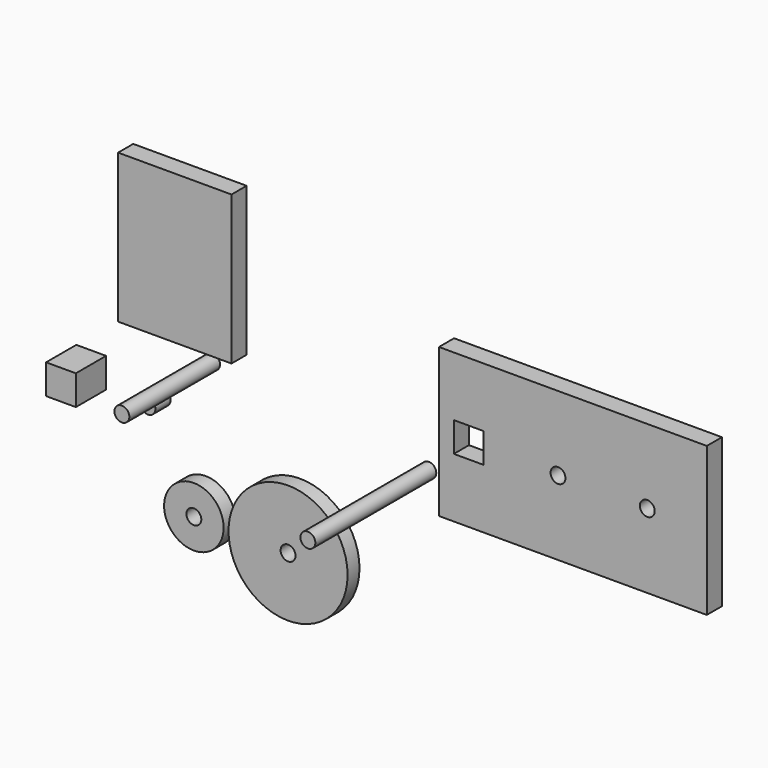
from build123d import *

# Parameters (mm, degrees)
F0_R      = 10
F1_DEPTH  = 5
F0_R_2    = 20
F2_R      = 2.5
F3_DEPTH  = 5.001
F4_R      = 2.5
F5_DEPTH  = 5.001
F6_R      = 2.5
F7_DEPTH  = 38.1
F8_R      = 2.5
F9_DEPTH  = 50.8
F10_W     = 38.1
F10_H     = 50
F11_DEPTH = 6.35
F10_W_2   = 90
F12_W     = 10
F12_H     = 5
F13_DEPTH = 6.351
F14_W     = 10
F14_H     = 10
F15_DEPTH = 12.7
F16_R     = 2.5
F17_DEPTH = 6.35


with BuildPart() as f1:
    # F0 (on Front) → F1 (new body)
    with BuildSketch(Plane.XZ):
        with Locations((-47.5912168622, -11.0245700926)):
            Circle(F0_R)
    extrude(amount=F1_DEPTH)

    # F2 (on face) → F3 (cut, through all)
    with BuildSketch(Plane.XZ.offset(5)):
        with Locations((-47.5912168622, -11.0245700926)):
            Circle(F2_R)
    extrude(amount=-F3_DEPTH, mode=Mode.SUBTRACT)


with BuildPart() as f1b:
    # F0 (on Front) → F1, piece 2 (new body)
    with BuildSketch(Plane.XZ):
        with Locations((-15.9365069121, -11.4611871541)):
            Circle(F0_R_2)
    extrude(amount=F1_DEPTH)

    # F4 (on face) → F5 (cut, through all)
    with BuildSketch(Plane.XZ.offset(5)):
        with Locations((-15.9365069121, -11.4611871541)):
            Circle(F4_R)
    extrude(amount=-F5_DEPTH, mode=Mode.SUBTRACT)


with BuildPart() as f7:
    # F6 (on Front) → F7 (new body)
    with BuildSketch(Plane.XZ):
        with Locations((-45.2932268381, 33.5594303906)):
            Circle(F6_R)
    extrude(amount=F7_DEPTH)


with BuildPart() as f9:
    # F8 (on Front) → F9 (new body)
    with BuildSketch(Plane.XZ):
        with Locations((27.3612700403, 25.0783581287)):
            Circle(F8_R)
    extrude(amount=F9_DEPTH)


with BuildPart() as f11:
    # F10 (on Front) → F11 (new body)
    with BuildSketch(Plane.XZ):
        with Locations((-52.9153950814, 64.3106035315)):
            Rectangle(F10_W, F10_H)
    extrude(amount=F11_DEPTH)


with BuildPart() as f11b:
    # F10 (on Front) → F11, piece 2 (new body)
    with BuildSketch(Plane.XZ):
        with Locations((80.8423385769, 41.8799925596)):
            Rectangle(F10_W_2, F10_H)
    extrude(amount=F11_DEPTH)

    # F12 (on face) → F13 (cut, through all)
    with BuildSketch(Plane.XZ.offset(6.35)):
        with BuildLine():
            ThreePointArc((78.3423385769, 41.8799925596), (75.8423385769, 44.3799925596), (73.3423385769, 41.8799925596))
            Line((73.3423385769, 41.8799925596), (78.3423385769, 41.8799925596))
        make_face()
        with BuildLine():
            Line((78.3423385769, 41.8799925596), (73.3423385769, 41.8799925596))
            ThreePointArc((73.3423385769, 41.8799925596), (75.8423385769, 39.3799925596), (78.3423385769, 41.8799925596))
        make_face()
        with BuildLine():
            Line((103.3423385769, 41.8799925596), (108.3423385769, 41.8799925596))
            ThreePointArc((108.3423385769, 41.8799925596), (105.8423385769, 44.3799925596), (103.3423385769, 41.8799925596))
        make_face()
        with BuildLine():
            ThreePointArc((103.3423385769, 41.8799925596), (105.8423385769, 39.3799925596), (108.3423385769, 41.8799925596))
            Line((108.3423385769, 41.8799925596), (103.3423385769, 41.8799925596))
        make_face()
        with Locations((45.8423385769, 39.3799925596)):
            Rectangle(F12_W, F12_H)
        with Locations((45.8423385769, 44.3799925596)):
            Rectangle(F12_W, F12_H)
    extrude(amount=-F13_DEPTH, mode=Mode.SUBTRACT)


with BuildPart() as f15:
    # F14 (on Front) → F15 (new body)
    with BuildSketch(Plane.XZ):
        with Locations((-86.0851626339, 18.6468316242)):
            Rectangle(F14_W, F14_H)
    extrude(amount=F15_DEPTH)


with BuildPart() as f17:
    # F16 (on Front) → F17 (new body)
    with BuildSketch(Plane.XZ):
        with Locations((-61.932221055, 17.5799317658)):
            Circle(F16_R)
    extrude(amount=F17_DEPTH)


solid = Compound([f1.part, f1b.part, f7.part, f9.part, f11.part, f11b.part, f15.part, f17.part])
